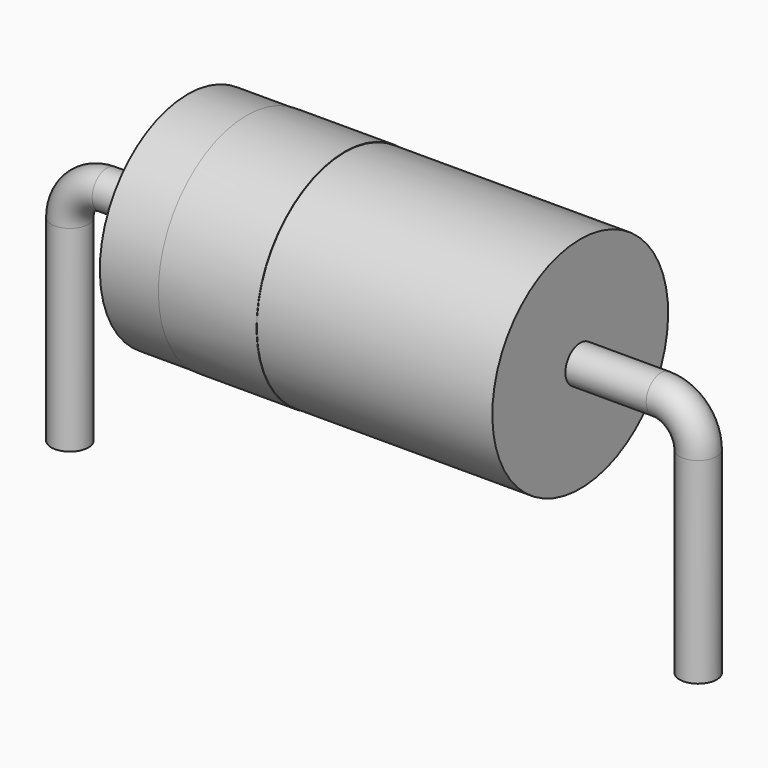
from build123d import *

# Parameters (mm, degrees)
SKETCH002_W = 9.52
SKETCH002_H = 2.665
SKETCH003_W = 2.38
SKETCH003_H = 0.02
SKETCH_R    = 0.45


with BuildPart() as revolution:
    # Sketch002 → Revolution (revolve)
    with BuildSketch(Plane.XZ):
        with Locations((7.62, 4.4975)):
            Rectangle(SKETCH002_W, SKETCH002_H)
    revolve(axis=Axis((2.86, 0, 3.165), (1, 0, 0)))


with BuildPart() as revolution001:
    # Sketch003 → Revolution001 (revolve)
    with BuildSketch(Plane.XZ):
        with Locations((5.478, 5.83)):
            Rectangle(SKETCH003_W, SKETCH003_H)
    revolve(axis=Axis((0, 0, 3.165), (1, 0, 0)))


with BuildPart() as sweep_body:
    # Sweep: sweep along a path in Sketch001
    with BuildLine(Plane.XZ) as sweep_path:
        Line((0, -2.5), (0, 2.265))
        ThreePointArc((0, 2.265), (0.263604, 2.901396), (0.9, 3.165))
        Line((0.9, 3.165), (14.34, 3.165))
        ThreePointArc((14.34, 3.165), (14.976396, 2.901396), (15.24, 2.265))
        Line((15.24, 2.265), (15.24, -2.5))
    # Sketch → Sweep (sweep)
    with BuildSketch(Plane.XY.offset(-2)):
        Circle(SKETCH_R)
    sweep(path=sweep_path.line)


solid = Compound([revolution.part, revolution001.part, sweep_body.part])
